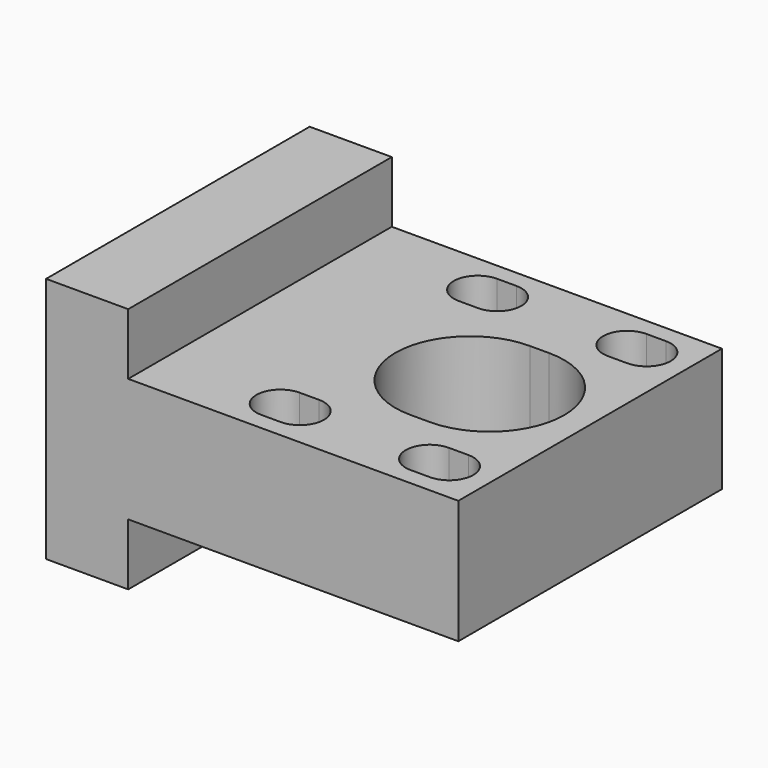
from build123d import *

# Parameters (mm, degrees)
SKETCH_W              = 101.5
SKETCH_H              = 127
PAD_DEPTH             = 38.1
SKETCH001_W           = 101.5
SKETCH001_H           = 25.3
PAD001_DEPTH          = 19
PAD001_DEPTH_BACK     = 57
SKETCH002_R           = 3.4
POCKET_DEPTH          = 25
POCKET001_DEPTH       = 10
CLONE_ROLL_ANGLE      = 180
CLONE_PLACEMENT_ANGLE = 90


with BuildPart() as part:
    # Sketch → Pad (new body)
    with BuildSketch(Plane.XY):
        with Locations((0, -31.5)):
            Rectangle(SKETCH_W, SKETCH_H)
        with BuildLine():
            ThreePointArc((23, 1), (0, 24), (-23, 1))
            Line((-23, 1), (-23, -5))
            ThreePointArc((-23, -5), (0, -28), (23, -5))
            Line((23, 1), (23, -5))
        make_face(mode=Mode.SUBTRACT)
        with BuildLine():
            ThreePointArc((-33, 19), (-38, 24), (-43, 19))
            Line((-43, 19), (-43, 13))
            ThreePointArc((-43, 13), (-38, 8), (-33, 13))
            Line((-33, 19), (-33, 13))
        make_face(mode=Mode.SUBTRACT)
        with BuildLine():
            ThreePointArc((43, 19), (38, 24), (33, 19))
            Line((33, 19), (33, 13))
            ThreePointArc((33, 13), (38, 8), (43, 13))
            Line((43, 19), (43, 13))
        make_face(mode=Mode.SUBTRACT)
        with BuildLine():
            ThreePointArc((43, -27), (38, -22), (33, -27))
            Line((33, -27), (33, -33))
            ThreePointArc((33, -33), (38, -38), (43, -33))
            Line((43, -27), (43, -33))
        make_face(mode=Mode.SUBTRACT)
        with BuildLine():
            ThreePointArc((-33, -27), (-38, -22), (-43, -27))
            Line((-43, -27), (-43, -33))
            ThreePointArc((-43, -33), (-38, -38), (-33, -33))
            Line((-33, -27), (-33, -33))
        make_face(mode=Mode.SUBTRACT)
    extrude(amount=PAD_DEPTH)

    # Sketch001 (on Face26 of Pad) → Pad001 (join, two sides)
    with BuildSketch(Plane.XY.offset(38.1)) as pad001_sk:
        with Locations((0, -82.35)):
            Rectangle(SKETCH001_W, SKETCH001_H)
    extrude(amount=PAD001_DEPTH)
    extrude(pad001_sk.sketch, amount=-PAD001_DEPTH_BACK)

    # Sketch002 (on Face36 of Pad001) → Pocket (cut)
    with BuildSketch(Plane.XY.offset(57.1)):
        with Locations((-38, -80.5)):
            Circle(SKETCH002_R)
        with Locations((38, -80.5)):
            Circle(SKETCH002_R)
    extrude(amount=-POCKET_DEPTH, mode=Mode.SUBTRACT)

    # Sketch003 (on Face4 of Pocket) → Pocket001 (cut)
    with BuildSketch(Plane(origin=(0, 0, 0), x_dir=(1, 0, 0), z_dir=(0, 0, -1))):
        with BuildLine():
            ThreePointArc((-30.6, 33), (-38, 40.4), (-45.4, 33))
            Line((-45.4, 33), (-45.4, 27))
            ThreePointArc((-45.4, 27), (-38, 19.6), (-30.6, 27))
            Line((-30.6, 33), (-30.6, 27))
        make_face()
        with BuildLine():
            ThreePointArc((45.4, 33), (38, 40.4), (30.6, 33))
            Line((30.6, 33), (30.6, 27))
            ThreePointArc((30.6, 27), (38, 19.6), (45.4, 27))
            Line((45.4, 33), (45.4, 27))
        make_face()
        with BuildLine():
            ThreePointArc((45.4, -13), (38, -5.6), (30.6, -13))
            Line((30.6, -13), (30.6, -19))
            ThreePointArc((30.6, -19), (38, -26.4), (45.4, -19))
            Line((45.4, -13), (45.4, -19))
        make_face()
        with BuildLine():
            ThreePointArc((-30.6, -13), (-38, -5.6), (-45.4, -13))
            Line((-45.4, -13), (-45.4, -19))
            ThreePointArc((-45.4, -19), (-38, -26.4), (-30.6, -19))
            Line((-30.6, -13), (-30.6, -19))
        make_face()
    extrude(amount=-POCKET001_DEPTH, mode=Mode.SUBTRACT)


with BuildPart() as part_1:
    # Clone roll: moved
    add(part.part.rotate(Axis((0, 0, 0), (1, 0, 0)), CLONE_ROLL_ANGLE))


with BuildPart() as part_2:
    # Clone placement: moved
    add(part_1.part.rotate(Axis((0, 0, 0), (0, 0, 1)), CLONE_PLACEMENT_ANGLE))


solid = part_2.part
